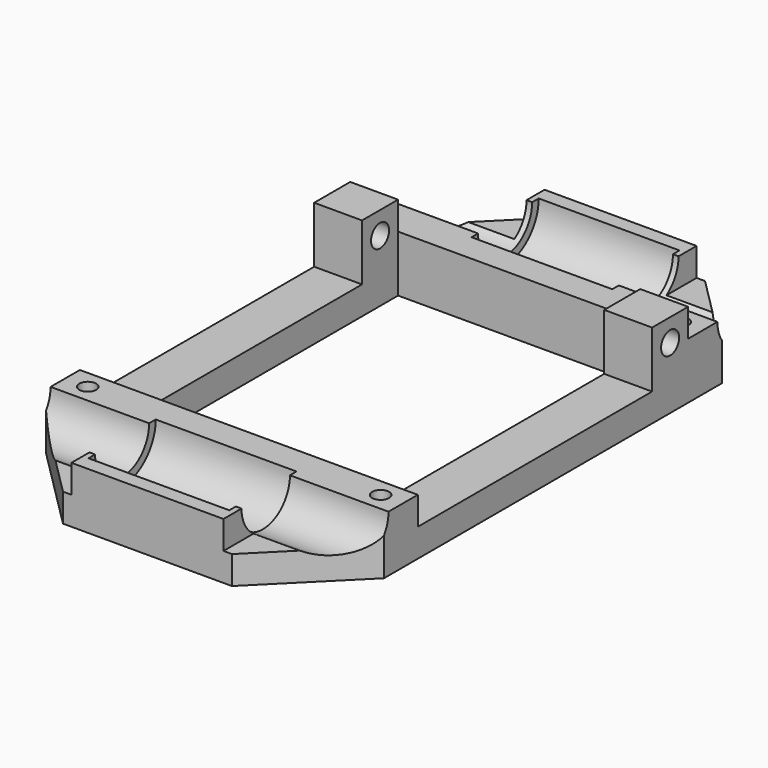
from build123d import *

# Parameters (mm, degrees)
SKETCH003_R  = 7.46
PAD002_DEPTH = 25
SKETCH006_R  = 6
PAD005_DEPTH = 60
SKETCH007_R  = 1.5
PAD006_DEPTH = 10
SKETCH008_R  = 3
PAD007_DEPTH = 3
SKETCH_W     = 60
SKETCH_H     = 105
SKETCH_W_2   = 43
SKETCH_H_2   = 60
PAD_DEPTH    = 5
SKETCH005_W  = 8
SKETCH005_H  = 10
SKETCH005_R  = 2
PAD004_DEPTH = 8.5
SKETCH004_W  = 8
SKETCH004_H  = 10
SKETCH004_R  = 2
PAD003_DEPTH = 8.5
PAD001_DEPTH = 5
CHAMFER_SIZE = 15


with BuildPart() as bearingslot:
    # Sketch003 → Pad002 (new body)
    with BuildSketch(Plane.YZ.offset(17.5)):
        with Locations((10, 10)):
            Circle(SKETCH003_R)
        with Locations((95, 10)):
            Circle(SKETCH003_R)
    extrude(amount=PAD002_DEPTH)


with BuildPart() as rodslot:
    # Sketch006 → Pad005 (new body)
    with BuildSketch(Plane.YZ):
        with Locations((10, 10)):
            Circle(SKETCH006_R)
        with Locations((95, 10)):
            Circle(SKETCH006_R)
    extrude(amount=PAD005_DEPTH)


with BuildPart() as mountpoints:
    # Sketch007 → Pad006 (new body)
    with BuildSketch(Plane.XY.offset(10)):
        with Locations((4, 19.25)):
            Circle(SKETCH007_R)
        with Locations((56, 19.25)):
            Circle(SKETCH007_R)
        with Locations((56, 85.75)):
            Circle(SKETCH007_R)
        with Locations((4, 85.75)):
            Circle(SKETCH007_R)
    extrude(amount=-PAD006_DEPTH)


with BuildPart() as cutblocks:
    # Sketch008 → Pad007 (new body)
    with BuildSketch(Plane.XY):
        with Locations((4, 85.75)):
            Circle(SKETCH008_R)
        with Locations((56, 85.75)):
            Circle(SKETCH008_R)
        with Locations((56, 19.25)):
            Circle(SKETCH008_R)
        with Locations((4, 19.25)):
            Circle(SKETCH008_R)
    extrude(amount=PAD007_DEPTH)

    # Fusion: union BearingSlot, RodSlot, MountPoints
    add(bearingslot.part)
    add(rodslot.part)
    add(mountpoints.part)


with BuildPart() as base:
    # Sketch → Pad (new body)
    with BuildSketch(Plane.XY):
        with Locations((30, 52.5)):
            Rectangle(SKETCH_W, SKETCH_H)
        with Locations((30, 52.5)):
            Rectangle(SKETCH_W_2, SKETCH_H_2, mode=Mode.SUBTRACT)
    extrude(amount=PAD_DEPTH)


with BuildPart() as obj1:
    # Sketch005 → Pad004 (new body)
    with BuildSketch(Plane.YZ.offset(60)):
        with Locations((78.5, 10)):
            Rectangle(SKETCH005_W, SKETCH005_H)
        with Locations((78.5, 11)):
            Circle(SKETCH005_R, mode=Mode.SUBTRACT)
    extrude(amount=-PAD004_DEPTH)


with BuildPart() as obj2:
    # Sketch004 → Pad003 (new body)
    with BuildSketch(Plane.YZ):
        with Locations((78.5, 10)):
            Rectangle(SKETCH004_W, SKETCH004_H)
        with Locations((78.5, 11)):
            Circle(SKETCH004_R, mode=Mode.SUBTRACT)
    extrude(amount=PAD003_DEPTH)


with BuildPart() as chamfer_body:
    # Pad001 base: copy of Base
    add(base.part)

    # Sketch001 → Pad001 (new body)
    with BuildSketch(Plane.XY.offset(5)):
        Polygon((16.5, 105), (43.5, 105), (43.5, 92.5), (60, 92.5), (60, 82.5), (0, 82.5), (0, 92.5), (16.5, 92.5), align=None)
        Polygon((0, 22.5), (60, 22.5), (60, 12.5), (43.5, 12.5), (43.5, 0), (16.5, 0), (16.5, 12.5), (0, 12.5), align=None)
    extrude(amount=PAD001_DEPTH)

    # Fusion001: union Base, obj1, obj2
    add(base.part)
    add(obj1.part)
    add(obj2.part)

    # Cut: cut CutBlocks
    add(cutblocks.part, mode=Mode.SUBTRACT)

    # Chamfer
    chamfer_edges = [chamfer_body.edges().sort_by_distance(p)[0] for p in [
        (0, 105, 2.5),
        (60, 0, 2.5),
        (60, 105, 2.5),
        (0, 0, 2.5),
    ]]
    chamfer(chamfer_edges, length=CHAMFER_SIZE)


solid = chamfer_body.part
